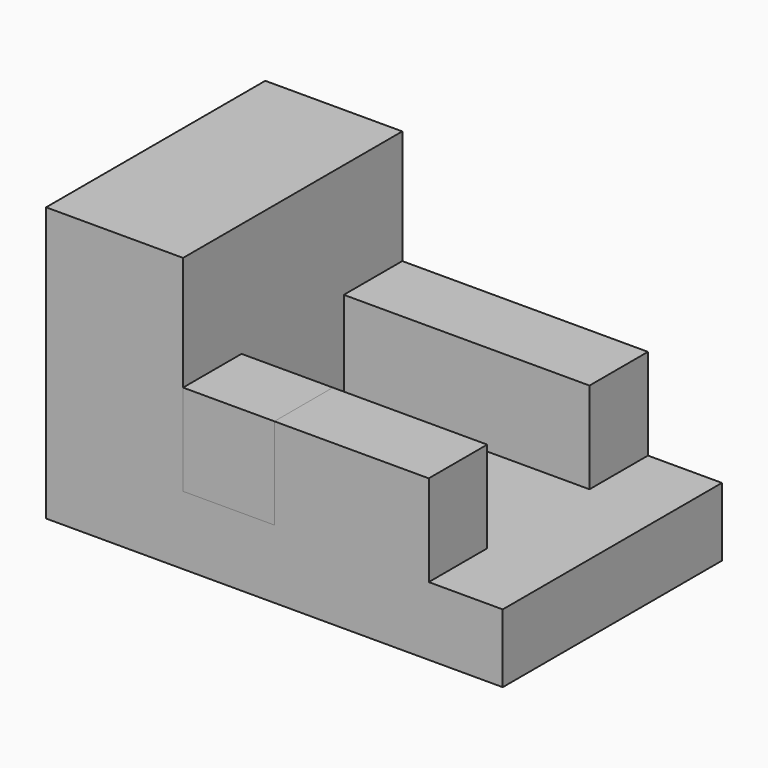
from build123d import *

# Parameters (mm, degrees)
F0_W     = 127
F0_H     = 76.2
F1_DEPTH = 76.2
F2_W     = 151.7542588233
F2_H     = 68.3967312743
F3_DEPTH = 59.182
F4_W     = 20.32
F4_H     = 25.4
F5_DEPTH = 42.926
F6_DEPTH = 25.4
F7_W     = 20.32
F7_H     = 25.4
F8_DEPTH = 42.926
F9_DEPTH = 25.4


with BuildPart() as f1:
    # F0 (on Top) → F1 (new body)
    with BuildSketch(Plane.XY):
        Rectangle(F0_W, F0_H)
    extrude(amount=F1_DEPTH)

    # F2 (on Front) → F3 (cut, symmetric)
    with BuildSketch(Plane.XZ):
        with Locations((50.4771294116, 53.2483656372)):
            Rectangle(F2_W, F2_H)
    extrude(amount=F3_DEPTH, both=True, mode=Mode.SUBTRACT)

    # F4 (on Right) → F5 (join)
    with BuildSketch(Plane.YZ):
        with Locations((-27.94, 31.75)):
            Rectangle(F4_W, F4_H)
    extrude(amount=F5_DEPTH)


with BuildPart() as f6:
    # F6 (new, through all): a face of the model
    f6_faces = [f1.part.faces().sort_by_distance(p)[0] for p in [
        (0, -27.94, 31.75),
    ]]
    extrude(f6_faces, amount=F6_DEPTH)


with BuildPart() as f1_1:
    add(f1.part)

    # F7 (on Right) → F8 (join)
    with BuildSketch(Plane.YZ):
        with Locations((27.94, 31.75)):
            Rectangle(F7_W, F7_H)
    extrude(amount=F8_DEPTH)

    # F9 (add, through all): a face of the model
    f9_faces = [f1_1.faces().sort_by_distance(p)[0] for p in [
        (0, 27.94, 31.75),
    ]]
    extrude(f9_faces, amount=F9_DEPTH)


solid = Compound([f6.part, f1_1.part])
